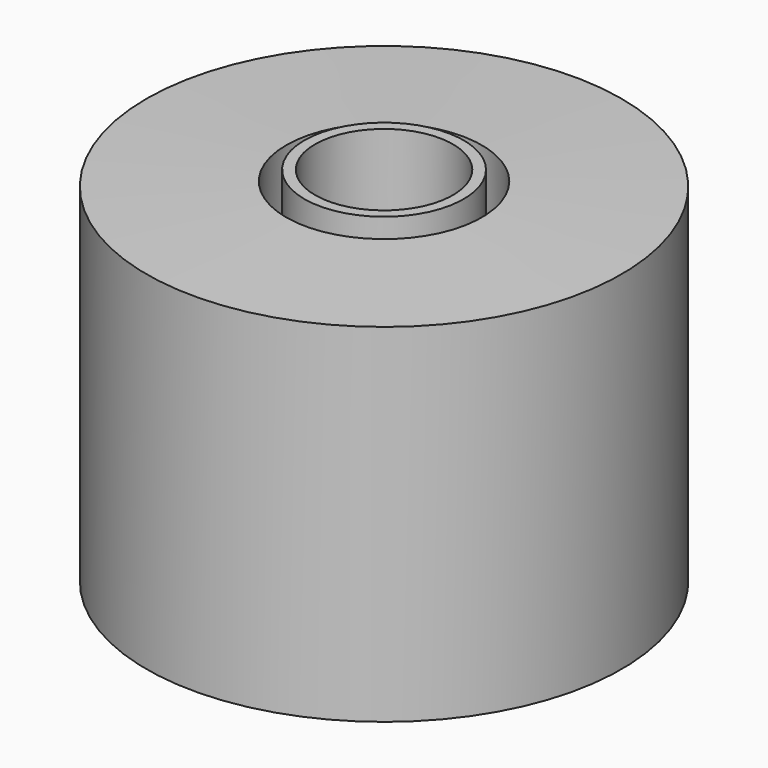
from build123d import *


with BuildPart() as f2:
    # F0 (on Front) → F2 (revolve)
    with BuildSketch(Plane.XZ):
        Polygon((-12.464304, 41.479588), (-12.464304, 64.364873), (-62.730208, 62.730215), (-62.730208, -62.321544), (-56.191552, -57.008885), (-56.191552, 41.479588), align=None)
        Polygon((-2.073284, 68.042867), (-5.925652, 68.042867), (-5.925652, 32.897603), (-45.157574, 32.897603), (-45.157574, -53.943887), (-49.959399, -58.439214), (-42.194746, -58.439214), (-38.54907, -55.026239), (-38.54907, 27.25881), (-2.073284, 27.25881), align=None)
    revolve(axis=Axis((22.712123, 0, 6.725805), (0, 0, -1)))


solid = f2.part
